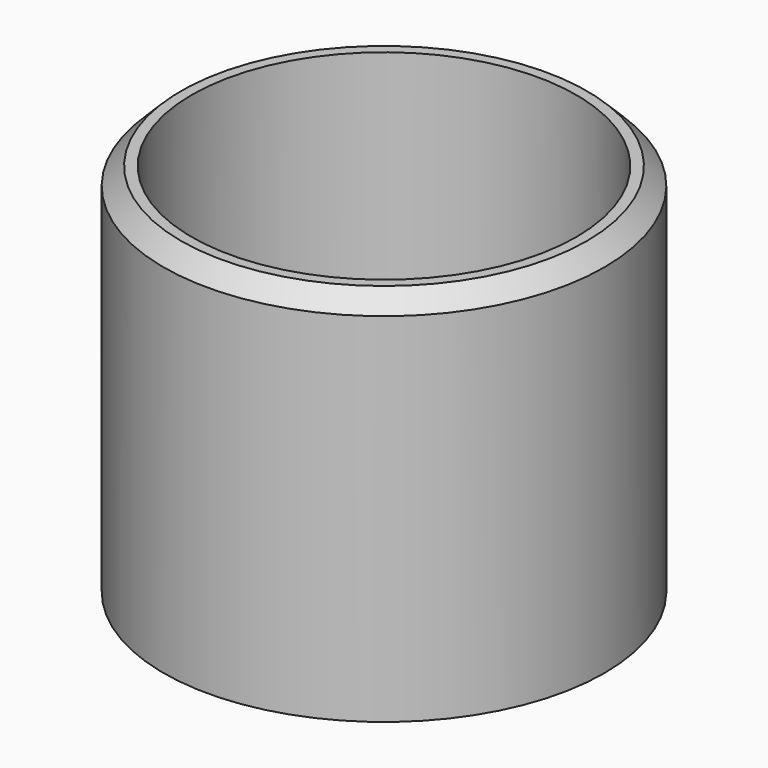
from build123d import *

# Parameters (mm, degrees)
SKETCH_R        = 17.65
SKETCH_R_2      = 15.4
PAD_DEPTH       = 30
CHAMFER_SIZE    = 1.4
CHAMFER001_SIZE = 1.4


with BuildPart() as part:
    # Sketch → Pad (new body)
    with BuildSketch(Plane.XY):
        Circle(SKETCH_R)
        Circle(SKETCH_R_2, mode=Mode.SUBTRACT)
    extrude(amount=PAD_DEPTH)

    # Chamfer
    chamfer_edges = [part.edges().sort_by_distance(p)[0] for p in [
        (-17.65, 0, 30),
    ]]
    chamfer(chamfer_edges, length=CHAMFER_SIZE)

    # Chamfer001
    chamfer001_edges = [part.edges().sort_by_distance(p)[0] for p in [
        (-15.4, 0, 0),
    ]]
    chamfer(chamfer001_edges, length=CHAMFER001_SIZE)


solid = part.part
